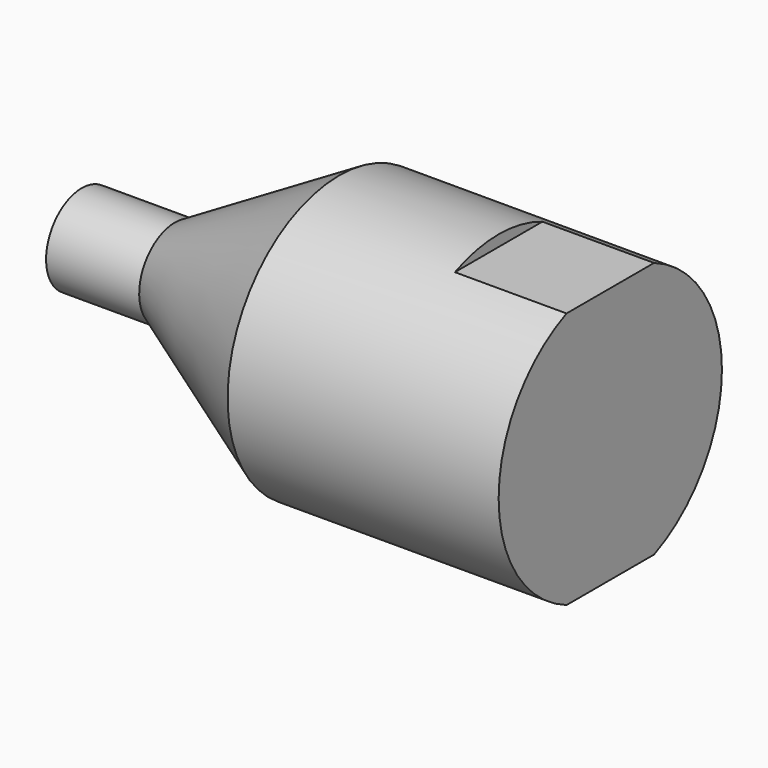
from build123d import *

# Parameters (mm, degrees)
F2_W     = 13.42322
F2_H     = 3.613965
F3_DEPTH = 12.5


with BuildPart() as f1:
    # F0 (on Front) → F1 (revolve)
    with BuildSketch(Plane.XZ):
        Polygon((2.658645, 4), (0, 0), (50, 0), (50, 12.5), (25.722432, 12.5), (11, 4), align=None)
    revolve(axis=Axis((25, 0, 0), (-1, 0, 0)))

    # F2 (on Front) → F3 (cut, symmetric)
    with BuildSketch(Plane.XZ):
        with Locations((46.71161, 13.306983)):
            Rectangle(F2_W, F2_H)
        with Locations((46.71161, -13.306983)):
            Rectangle(F2_W, F2_H)
    extrude(amount=F3_DEPTH, both=True, mode=Mode.SUBTRACT)


solid = f1.part
